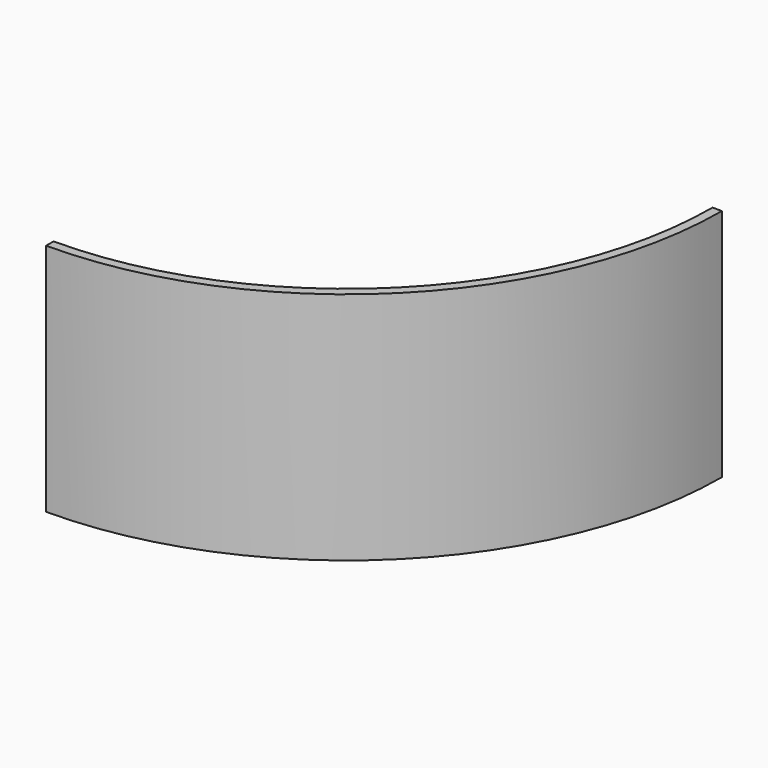
from build123d import *

# Parameters (mm, degrees)
PAD_DEPTH = 80


with BuildPart() as part:
    # Sketch → Pad (new body)
    with BuildSketch(Plane.XY):
        with BuildLine():
            ThreePointArc((0, -125), (88.388352, -88.388343), (125, 1.3e-05))
            Line((125, 1.3e-05), (128.2, 0))
            ThreePointArc((0, -128.2), (90.651089, -90.651089), (128.2, 0))
            Line((0, -125), (0, -128.2))
        make_face()
    extrude(amount=PAD_DEPTH)


solid = part.part
